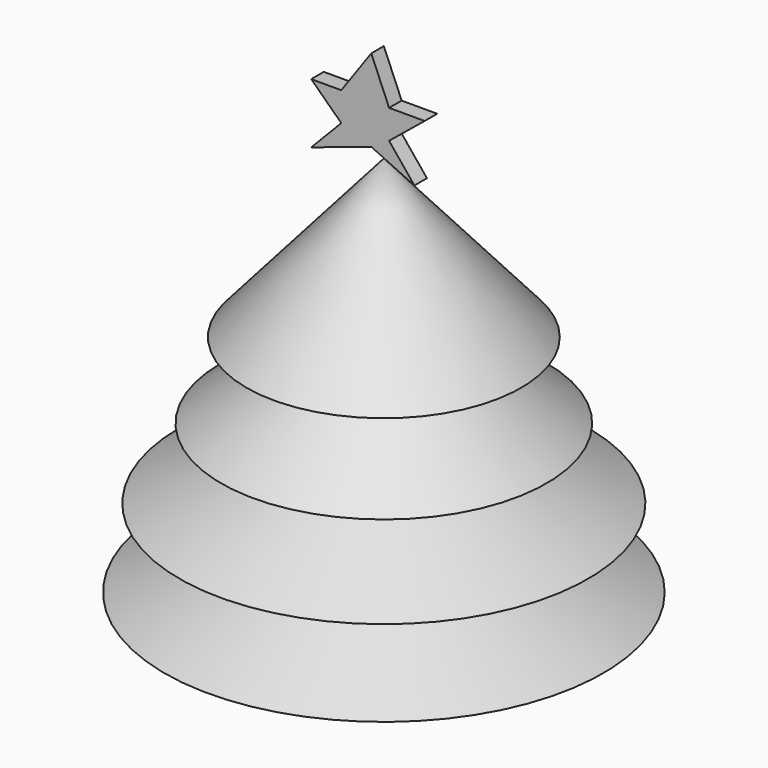
from build123d import *

# Parameters (mm, degrees)
F3_DEPTH = 2.032
F4_SCALE = 0.1714285714


with BuildPart() as f1:
    # F0 (on Front) → F1 (revolve)
    with BuildSketch(Plane.XZ):
        Polygon((0, -20.8213161677), (0, 39.3031574786), (-17.7800003439, 18.9497377723), (-8.6560528725, 18.9497377723), (-21.0552625358, 9.1239474714), (-8.6560528725, 9.1239474714), (-26.4360532165, 0), (-8.6560528725, 0), (-28.3829102607, -10.1229925255), (-4.9128951505, -10.1229925255), (-4.9128951505, -20.8213161677), align=None)
    revolve(axis=Axis((0, 0, 9.2409206554), (0, 0, -1)))


with BuildPart() as f3:
    # F2 (on Front) → F3 (new body)
    with BuildSketch(Plane.XZ):
        Polygon((-3.8853781298, 42.8830571473), (-7.7707562596, 38.8537757099), (0, 41.4440259337), (5.5807363096, 38.8537757099), (2.3024473339, 42.8830571473), (6.9073382765, 46.6296713875), (2.3024473339, 46.6296713875), (0, 52.0928427577), (-3.8853781298, 46.6296713875), (-7.7707562596, 46.6296713875), align=None)
    extrude(amount=F3_DEPTH)


with BuildPart() as f1_1:
    # F4: moved
    add(f1.part.scale(F4_SCALE).moved(Location((0, -1.6836571429, 43.1626411421))))


with BuildPart() as f3_1:
    # F4: moved
    add(f3.part.scale(F4_SCALE).moved(Location((0, -1.6836571429, 43.1626411421))))


solid = Compound([f1_1.part, f3_1.part])
